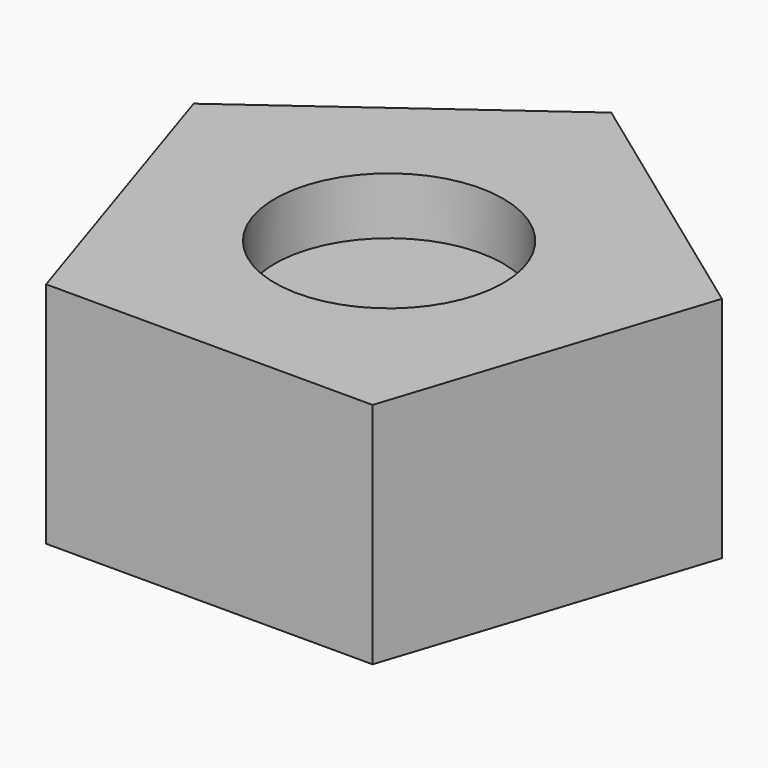
from build123d import *

# Parameters (mm, degrees)
F1_DEPTH = 15
F2_R     = 10
F3_DEPTH = 5


with BuildPart() as f1:
    # F0 (on Top) → F1 (new body)
    with BuildSketch(Plane.XY):
        Polygon((0, -19.677398), (0, 24.322602), (-23.132169, 7.516097), (-14.296467, -19.677398), align=None)
        Polygon((23.132169, 7.516097), (0, 24.322602), (0, -19.677398), (14.296467, -19.677398), align=None)
    extrude(amount=F1_DEPTH)

    # F2 (on face) → F3 (join)
    with BuildSketch(Plane.XY.offset(15)):
        Polygon((0, 24.322602), (-23.132169, 7.516097), (-14.296467, -19.677398), (14.296467, -19.677398), (23.132169, 7.516097), align=None)
        Circle(F2_R, mode=Mode.SUBTRACT)
    extrude(amount=F3_DEPTH)


solid = f1.part
